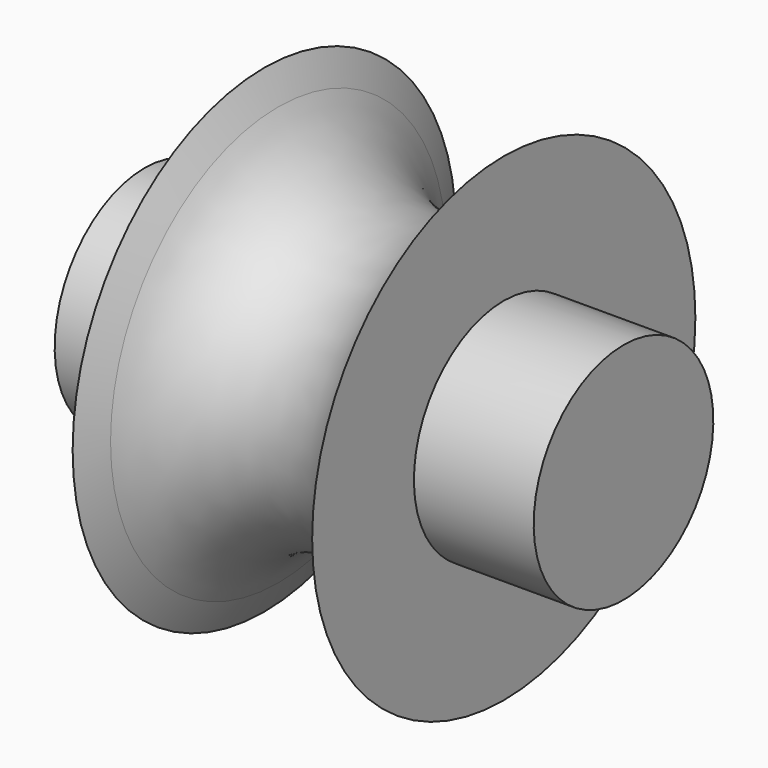
from build123d import *


with BuildPart() as f1:
    # F0 (on Front) → F1 (revolve)
    with BuildSketch(Plane.XZ):
        with BuildLine():
            Line((-25.4, 11.90625), (-25.4, 0))
            Line((-25.4, 0), (0, 0))
            Line((0, 0), (25.4, 0))
            Line((25.4, 0), (25.4, 11.90625))
            Line((25.4, 11.90625), (12.7, 11.90625))
            Line((12.7, 11.90625), (12.7, 25.4))
            Line((12.7, 25.4), (11.219473, 22.225))
            ThreePointArc((11.219473, 22.225), (0, 15.077407), (-11.219473, 22.225))
            Line((-11.219473, 22.225), (-12.7, 25.4))
            Line((-12.7, 25.4), (-12.7, 11.90625))
            Line((-12.7, 11.90625), (-25.4, 11.90625))
        make_face()
    revolve(axis=Axis((-5.579621, 0, 0), (1, 0, 0)))


solid = f1.part
